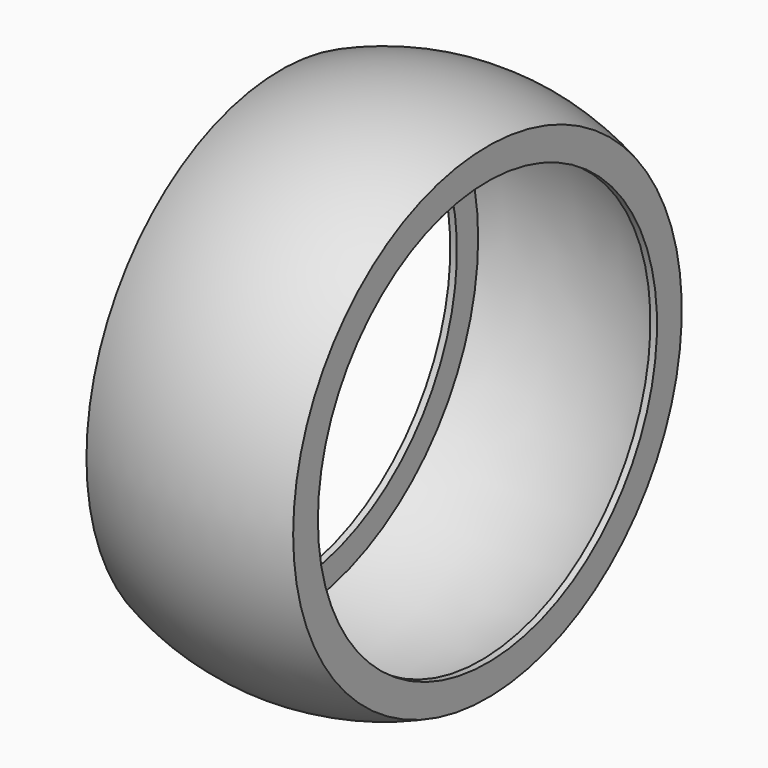
from build123d import *

# Parameters (mm, degrees)
F2_R     = 2
F3_DEPTH = 198.121


with BuildPart() as f1:
    # F0 (on Top) → F1 (revolve)
    with BuildSketch(Plane.XY):
        with BuildLine():
            Line((-99.06, -203.163073), (-99.06, -232.800594))
            ThreePointArc((-99.06, -232.800594), (0, -253), (99.06, -232.800594))
            Line((99.06, -232.800594), (99.06, -203.163073))
            Line((99.06, -203.163073), (92.71, -203.163073))
            Line((92.71, -203.163073), (92.71, -228.563073))
            ThreePointArc((92.71, -228.563073), (0, -246.65), (-92.71, -228.563073))
            Line((-92.71, -228.563073), (-92.71, -203.163073))
            Line((-92.71, -203.163073), (-99.06, -203.163073))
        make_face()
    revolve(axis=Axis((76.745674, 0, 0), (1, 0, 0)))

    # F2 (on face) → F3 (cut, through all)
    with BuildSketch(Plane.YZ.offset(99.06)):
        with Locations((-16.355159, 186.940326)):
            Circle(F2_R)
        with Locations((-48.568535, 181.260238)):
            Circle(F2_R)
        with Locations((-79.306179, 170.072651)):
            Circle(F2_R)
        with Locations((-107.634146, 153.717491)):
            Circle(F2_R)
        with Locations((-132.691704, 132.691704)):
            Circle(F2_R)
        with Locations((-153.717491, 107.634146)):
            Circle(F2_R)
        with Locations((-170.072651, 79.306179)):
            Circle(F2_R)
        with Locations((-181.260238, 48.568535)):
            Circle(F2_R)
        with Locations((-186.940326, 16.355159)):
            Circle(F2_R)
        with Locations((-186.940326, -16.355159)):
            Circle(F2_R)
        with Locations((-181.260238, -48.568535)):
            Circle(F2_R)
        with Locations((-170.072651, -79.306179)):
            Circle(F2_R)
        with Locations((-153.717491, -107.634146)):
            Circle(F2_R)
        with Locations((-132.691704, -132.691704)):
            Circle(F2_R)
        with Locations((-107.634146, -153.717491)):
            Circle(F2_R)
        with Locations((-79.306179, -170.072651)):
            Circle(F2_R)
        with Locations((-48.568535, -181.260238)):
            Circle(F2_R)
        with Locations((-16.355159, -186.940326)):
            Circle(F2_R)
        with Locations((16.355159, -186.940326)):
            Circle(F2_R)
        with Locations((48.568535, -181.260238)):
            Circle(F2_R)
        with Locations((79.306179, -170.072651)):
            Circle(F2_R)
        with Locations((107.634146, -153.717491)):
            Circle(F2_R)
        with Locations((132.691704, -132.691704)):
            Circle(F2_R)
        with Locations((153.717491, -107.634146)):
            Circle(F2_R)
        with Locations((170.072651, -79.306179)):
            Circle(F2_R)
        with Locations((181.260238, -48.568535)):
            Circle(F2_R)
        with Locations((186.940326, -16.355159)):
            Circle(F2_R)
        with Locations((186.940326, 16.355159)):
            Circle(F2_R)
        with Locations((181.260238, 48.568535)):
            Circle(F2_R)
        with Locations((170.072651, 79.306179)):
            Circle(F2_R)
        with Locations((153.717491, 107.634146)):
            Circle(F2_R)
        with Locations((132.691704, 132.691704)):
            Circle(F2_R)
        with Locations((107.634146, 153.717491)):
            Circle(F2_R)
        with Locations((79.306179, 170.072651)):
            Circle(F2_R)
        with Locations((48.568535, 181.260238)):
            Circle(F2_R)
        with Locations((16.355159, 186.940326)):
            Circle(F2_R)
    extrude(amount=-F3_DEPTH, mode=Mode.SUBTRACT)


solid = f1.part
